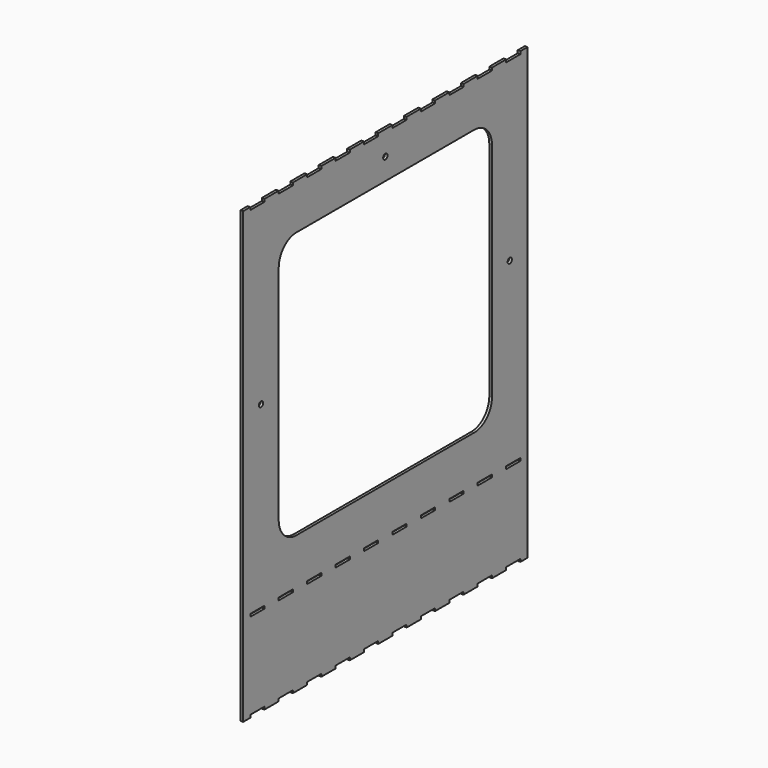
from build123d import *

# Parameters (mm, degrees)
F0_W      = 400
F0_H      = 500
F1_DEPTH  = 3
F2_W      = 10
F2_H      = 3
F2_W_2    = 20
F3_DEPTH  = 3
F4_W      = 20
F4_H      = 3
F5_DEPTH  = 3.001
F6_W      = 300
F6_H      = 300
F7_DEPTH  = 25
F8_R      = 25
F9_R      = 3
F10_DEPTH = 25


with BuildPart() as f1:
    # F0 (on Right) → F1 (new body)
    with BuildSketch(Plane.YZ):
        Rectangle(F0_W, F0_H)
    extrude(amount=F1_DEPTH)

    # F2 (on face) → F3 (join, through all)
    with BuildSketch(Plane.YZ.offset(3)):
        with Locations((-195, 251.5)):
            Rectangle(F2_W, F2_H)
        with Locations((-160, 251.5)):
            Rectangle(F2_W_2, F2_H)
        with Locations((-120, 251.5)):
            Rectangle(F2_W_2, F2_H)
        with Locations((-80, 251.5)):
            Rectangle(F2_W_2, F2_H)
        with Locations((-40, 251.5)):
            Rectangle(F2_W_2, F2_H)
        with Locations((0, 251.5)):
            Rectangle(F2_W_2, F2_H)
        with Locations((40, 251.5)):
            Rectangle(F2_W_2, F2_H)
        with Locations((80, 251.5)):
            Rectangle(F2_W_2, F2_H)
        with Locations((120, 251.5)):
            Rectangle(F2_W_2, F2_H)
        with Locations((160, 251.5)):
            Rectangle(F2_W_2, F2_H)
        with Locations((195, 251.5)):
            Rectangle(F2_W, F2_H)
        with Locations((-195, -251.5)):
            Rectangle(F2_W, F2_H)
        with Locations((-160, -251.5)):
            Rectangle(F2_W_2, F2_H)
        with Locations((-120, -251.5)):
            Rectangle(F2_W_2, F2_H)
        with Locations((195, -251.5)):
            Rectangle(F2_W, F2_H)
        with Locations((-80, -251.5)):
            Rectangle(F2_W_2, F2_H)
        with Locations((160, -251.5)):
            Rectangle(F2_W_2, F2_H)
        with Locations((0, -251.5)):
            Rectangle(F2_W_2, F2_H)
        with Locations((120, -251.5)):
            Rectangle(F2_W_2, F2_H)
        with Locations((-40, -251.5)):
            Rectangle(F2_W_2, F2_H)
        with Locations((40, -251.5)):
            Rectangle(F2_W_2, F2_H)
        with Locations((80, -251.5)):
            Rectangle(F2_W_2, F2_H)
    extrude(amount=-F3_DEPTH)

    # F4 (on face) → F5 (cut, through all)
    with BuildSketch(Plane(origin=(0, 0, 0), x_dir=(0, -1, 0), z_dir=(-1, 0, 0))):
        with Locations((-180, -151.5)):
            Rectangle(F4_W, F4_H)
        with Locations((-140, -151.5)):
            Rectangle(F4_W, F4_H)
        with Locations((-100, -151.5)):
            Rectangle(F4_W, F4_H)
        with Locations((-60, -151.5)):
            Rectangle(F4_W, F4_H)
        with Locations((-20, -151.5)):
            Rectangle(F4_W, F4_H)
        with Locations((20, -151.5)):
            Rectangle(F4_W, F4_H)
        with Locations((60, -151.5)):
            Rectangle(F4_W, F4_H)
        with Locations((100, -151.5)):
            Rectangle(F4_W, F4_H)
        with Locations((140, -151.5)):
            Rectangle(F4_W, F4_H)
        with Locations((180, -151.5)):
            Rectangle(F4_W, F4_H)
    extrude(amount=-F5_DEPTH, mode=Mode.SUBTRACT)

    # F6 (on face) → F7 (cut)
    with BuildSketch(Plane(origin=(0, 0, 0), x_dir=(0, -1, 0), z_dir=(-1, 0, 0))):
        with Locations((0, 51.5)):
            Rectangle(F6_W, F6_H)
    extrude(amount=-F7_DEPTH, mode=Mode.SUBTRACT)

    # F8
    f8_edges = [f1.edges().sort_by_distance(p)[0] for p in [
        (1.5, 150, 201.5),
        (1.5, -150, 201.5),
        (1.5, -150, -98.5),
        (1.5, 150, -98.5),
    ]]
    fillet(f8_edges, radius=F8_R)

    # F9 (on face) → F10 (cut)
    with BuildSketch(Plane.YZ.offset(3)):
        with Locations((0, 225.75)):
            Circle(F9_R)
        with Locations((-175, 51.5)):
            Circle(F9_R)
        with Locations((175, 51.5)):
            Circle(F9_R)
    extrude(amount=-F10_DEPTH, mode=Mode.SUBTRACT)


solid = f1.part
